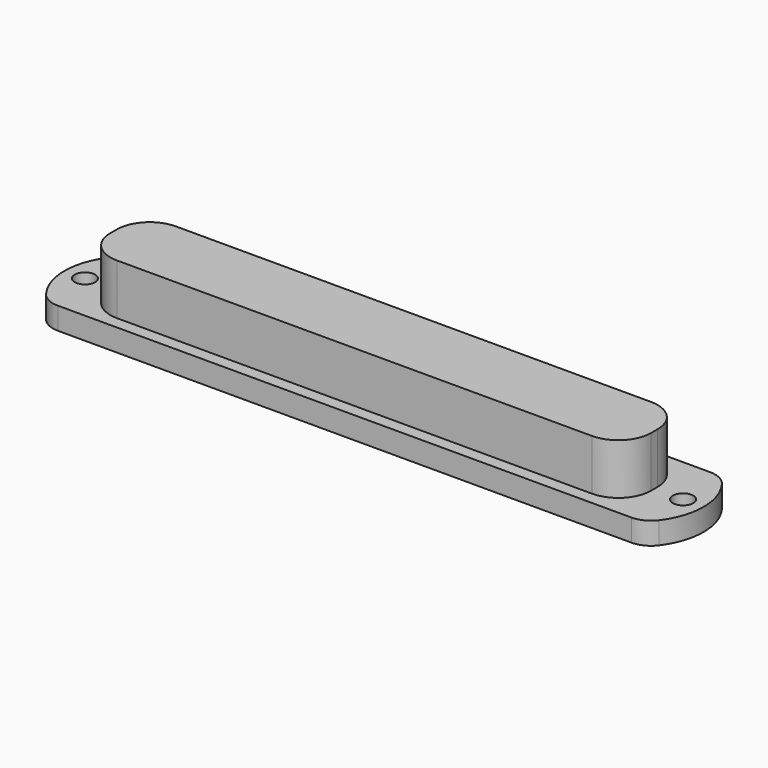
from build123d import *

# Parameters (mm, degrees)
F1_DEPTH = 2.7
F3_DEPTH = 6.2
F4_R     = 1.25
F5_DEPTH = 25
F6_SIZE  = 0.5


with BuildPart() as f1:
    # F0 (on Top) → F1 (new body)
    with BuildSketch(Plane.XY):
        with BuildLine():
            Line((-35, -6), (35, -6))
            ThreePointArc((35, -6), (36.3416407865, -5.683281573), (37.4, -4.8))
            ThreePointArc((37.4, -4.8), (39, 0), (37.4, 4.8))
            ThreePointArc((37.4, 4.8), (36.3416407865, 5.683281573), (35, 6))
            Line((35, 6), (-35, 6))
            ThreePointArc((-35, 6), (-36.3416407865, 5.683281573), (-37.4, 4.8))
            ThreePointArc((-37.4, 4.8), (-39, 0), (-37.4, -4.8))
            ThreePointArc((-37.4, -4.8), (-36.3416407865, -5.683281573), (-35, -6))
        make_face()
    extrude(amount=F1_DEPTH)

    # F2 (on face) → F3 (join)
    with BuildSketch(Plane.XY.offset(2.7)):
        with BuildLine():
            Line((29, 4.5), (-29, 4.5))
            ThreePointArc((-29, 4.5), (-31.8284271247, 3.3284271247), (-33, 0.5))
            Line((-33, 0.5), (-33, -0.5))
            ThreePointArc((-33, -0.5), (-31.8284271247, -3.3284271247), (-29, -4.5))
            Line((-29, -4.5), (29, -4.5))
            ThreePointArc((29, -4.5), (31.8284271247, -3.3284271247), (33, -0.5))
            Line((33, -0.5), (33, 0.5))
            ThreePointArc((33, 0.5), (31.8284271247, 3.3284271247), (29, 4.5))
        make_face()
    extrude(amount=F3_DEPTH)

    # F4 (on face) → F5 (cut)
    with BuildSketch(Plane.XY.offset(2.7)):
        with Locations((-36.5, 0)):
            Circle(F4_R)
        with Locations((36.5, 0)):
            Circle(F4_R)
    extrude(amount=-F5_DEPTH, mode=Mode.SUBTRACT)

    # F6
    f6_edges = [f1.edges().sort_by_distance(p)[0] for p in [
        (-37.75, 0, 0),
        (35.25, 0, 0),
    ]]
    chamfer(f6_edges, length=F6_SIZE)


solid = f1.part
